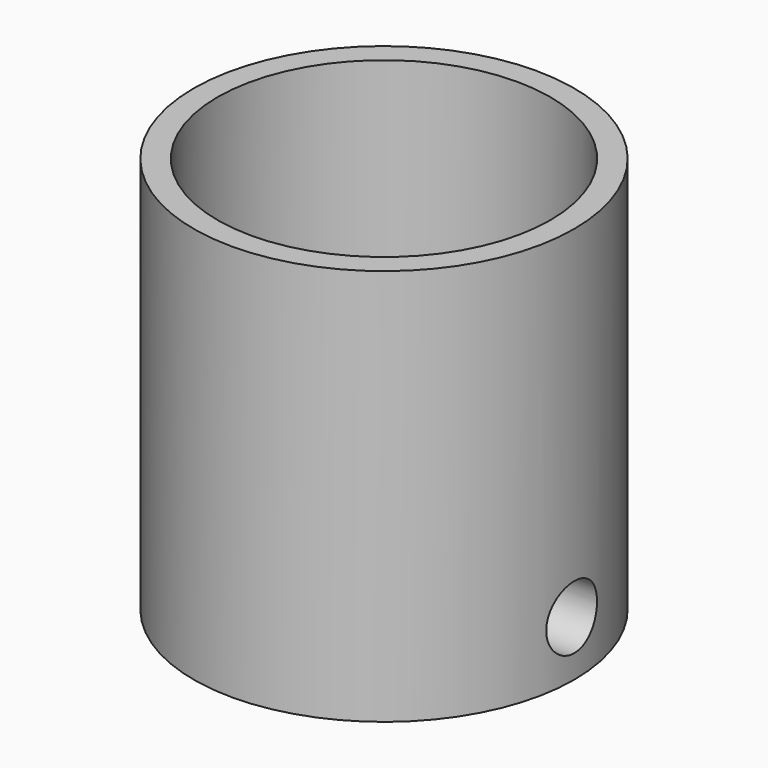
from build123d import *

# Parameters (mm, degrees)
F0_R     = 9.59
F0_R_2   = 8.39
F1_DEPTH = 15
F2_DEPTH = 1.2
F3_W     = 2
F3_H     = 6
F4_DEPTH = 5
F5_R     = 1.6
F6_DEPTH = 15.2727807522
F7_DEPTH = 5
F8_DEPTH = 5
F9_DEPTH = 39.7


with BuildPart() as f1:
    # F0 (on Top) → F1 (new body)
    with BuildSketch(Plane.XY):
        Circle(F0_R)
        Circle(F0_R_2, mode=Mode.SUBTRACT)
    extrude(amount=F1_DEPTH)

    # F0 (on Top) → F2 (join)
    with BuildSketch(Plane.XY):
        Circle(F0_R_2)
    extrude(amount=F2_DEPTH)

    # F3 (on face) → F4 (join)
    with BuildSketch(Plane.XY):
        with Locations((-4.6817807522, 0)):
            Rectangle(F3_W, F3_H)
        with Locations((4.6817807522, 0)):
            Rectangle(F3_W, F3_H)
    extrude(amount=-F4_DEPTH)

    # F5 (on face) → F6 (cut, through all)
    with BuildSketch(Plane.YZ.offset(5.6817807522)):
        with Locations((0, -2.223377116)):
            Circle(F5_R)
    extrude(amount=-F6_DEPTH, mode=Mode.SUBTRACT)

    # F0 (on Top) → F7 (join)
    with BuildSketch(Plane.XY):
        Circle(F0_R_2)
    extrude(amount=-F7_DEPTH)

    # F0 (on Top) → F8 (join)
    with BuildSketch(Plane.XY):
        Circle(F0_R)
        Circle(F0_R_2, mode=Mode.SUBTRACT)
    extrude(amount=-F8_DEPTH)

    # F5 (on face) → F9 (cut, symmetric)
    with BuildSketch(Plane.YZ.offset(5.6817807522)):
        with Locations((0, -2.223377116)):
            Circle(F5_R)
    extrude(amount=F9_DEPTH, both=True, mode=Mode.SUBTRACT)


solid = f1.part
